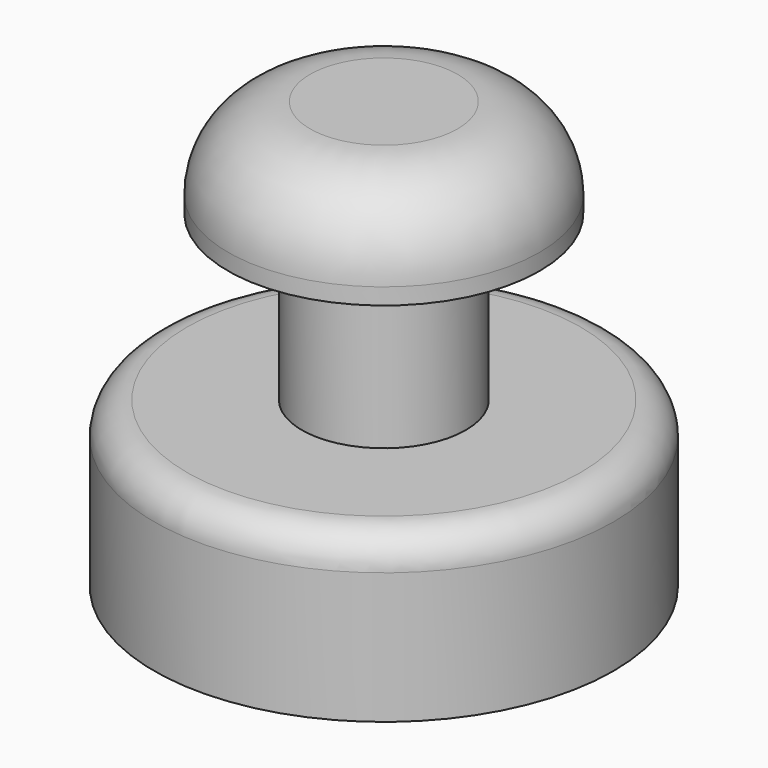
from build123d import *

# Parameters (mm, degrees)
F0_R     = 4.75
F1_DEPTH = 3
F2_R     = 2.5
F3_R     = 2.5
F4_DEPTH = 5
F5_R     = 7
F5_R_2   = 6
F6_DEPTH = 5
F7_R     = 6
F7_R_2   = 2.5
F8_DEPTH = 1
F9_R     = 1


with BuildPart() as f1:
    # F0 (on Top) → F1 (new body)
    with BuildSketch(Plane.XY):
        Circle(F0_R)
    extrude(amount=F1_DEPTH)

    # F2
    f2_edges = [f1.edges().sort_by_distance(p)[0] for p in [
        (-4.75, 0, 3),
    ]]
    fillet(f2_edges, radius=F2_R)

    # F3 (on face) → F4 (join)
    with BuildSketch(Plane(origin=(0, 0, 0), x_dir=(1, 0, 0), z_dir=(0, 0, -1))):
        Circle(F3_R)
    extrude(amount=F4_DEPTH)



with BuildPart() as f6:
    # F5 (on face) → F6 (new body)
    with BuildSketch(Plane(origin=(0, 0, -5), x_dir=(1, 0, 0), z_dir=(0, 0, -1))):
        Circle(F5_R)
        Circle(F5_R_2, mode=Mode.SUBTRACT)
    extrude(amount=F6_DEPTH)


with BuildPart() as f1_1:
    add(f1.part)

    add(f6.part)  # F8 merges F6
    # F7 (on face) → F8 (join)
    with BuildSketch(Plane(origin=(0, 0, -5), x_dir=(1, 0, 0), z_dir=(0, 0, -1))):
        Circle(F7_R)
        Circle(F7_R_2, mode=Mode.SUBTRACT)
    extrude(amount=F8_DEPTH)

    # F9
    f9_edges = [f1_1.edges().sort_by_distance(p)[0] for p in [
        (-7, 0, -5),
    ]]
    fillet(f9_edges, radius=F9_R)


solid = f1_1.part
